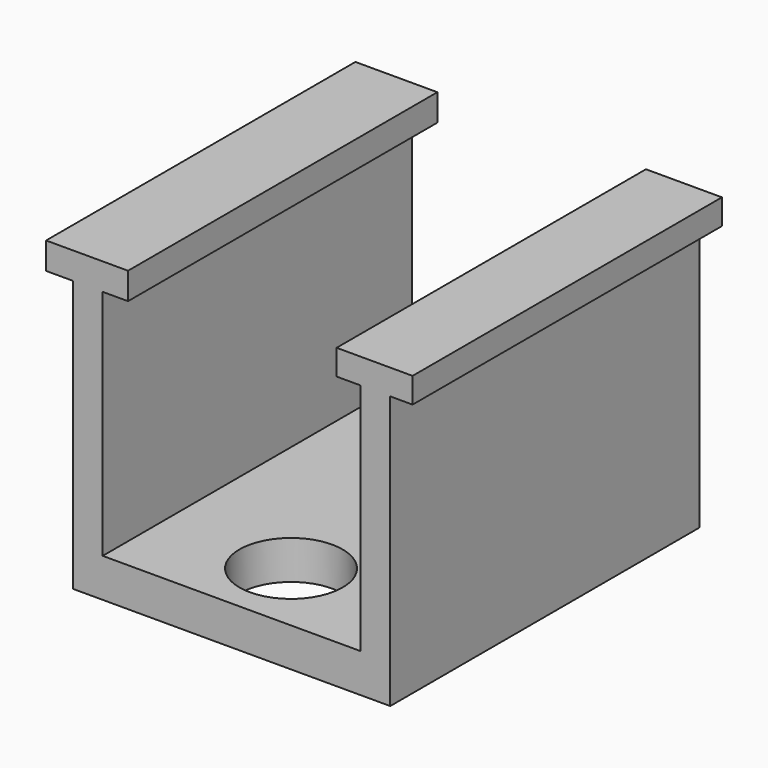
from build123d import *

# Parameters (mm, degrees)
F0_W     = 5.8722943068
F0_H     = 45.8038914949
F0_W_2   = 5.8722924441
F0_H_2   = 46.0975058377
F1_DEPTH = 76.2
F3_D     = 20.32


with BuildPart() as f1:
    # F0 (on Front) → F1 (new body)
    with BuildSketch(Plane.XZ):
        Polygon((-37.7294868231, 30.5359270424), (-53.8782961667, 30.5359270424), (-53.8782961667, 25.2508632839), (-48.5932305455, 25.2508632839), (-42.7209362388, 25.2508632839), (-37.7294868231, 25.2508632839), align=None)
        with Locations((-45.6570833921, 2.3489175364)):
            Rectangle(F0_W, F0_H)
        Polygon((-42.7209362388, -20.553028211), (-48.5932305455, -20.553028211), (-48.5932305455, -28.1870104373), (13.9466961846, -28.1870104373), (13.9466961846, -20.553028211), (8.0744037405, -20.553028211), align=None)
        with Locations((11.0105499625, 2.4957247078)):
            Rectangle(F0_W_2, F0_H_2)
        Polygon((3.3765700646, 25.5444776267), (8.0744037405, 25.5444776267), (13.9466961846, 25.5444776267), (18.350917846, 25.5444776267), (18.350917846, 30.5359270424), (3.3765700646, 30.5359270424), align=None)
    extrude(amount=F1_DEPTH)

    # F3 (through all)
    with Locations(Plane.XY.offset(-20.553028211)):
        with Locations((-17.4700734206, -21.3164253719), (-17.4700734206, -61.3654702902)):
            Hole(F3_D / 2)


solid = f1.part
